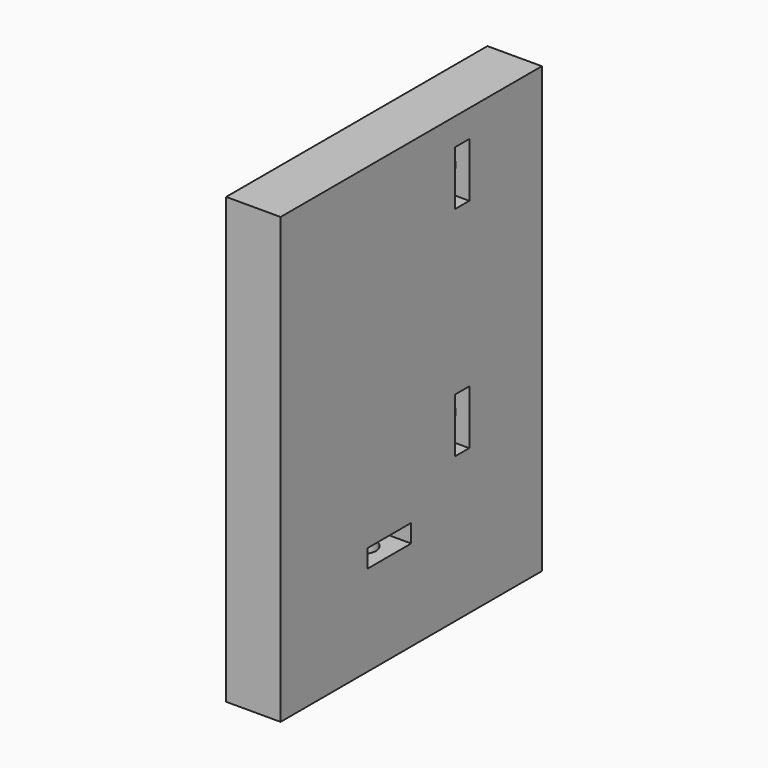
from build123d import *

# Parameters (mm, degrees)
CYLINDER1886_R               = 1.5
CYLINDER1886_DEPTH           = 50
CYLINDER1888_R               = 1.5
CYLINDER1888_DEPTH           = 50
CYLINDER1887_R               = 1.5
CYLINDER1887_DEPTH           = 50
CYLINDER1885_R               = 1.5
CYLINDER1885_DEPTH           = 50
BOX794_W                     = 2
BOX794_H                     = 6
BOX794_DEPTH                 = 6
BOX797_W                     = 2
BOX797_H                     = 6
BOX797_DEPTH                 = 6
BOX795_W                     = 2
BOX795_H                     = 6
BOX795_DEPTH                 = 6
BOX796_W                     = 2
BOX796_H                     = 6
BOX796_DEPTH                 = 6
CYLINDER1871_R               = 1.5
CYLINDER1871_DEPTH           = 50
CYLINDER1871_PLACEMENT_ANGLE = 45
BOX781_W                     = 6
BOX781_H                     = 8
BOX781_DEPTH                 = 2
BOX784_W                     = 49
BOX784_H                     = 36
BOX784_DEPTH                 = 6


with BuildPart() as obj1:
    # Cylinder1886 → Cylinder1886 (new body)
    with BuildSketch(Plane(origin=(-31, 150, 72), x_dir=(1, 0, 0), z_dir=(0, -1, 0))):
        Circle(CYLINDER1886_R)
    extrude(amount=CYLINDER1886_DEPTH)


with BuildPart() as obj2:
    # Cylinder1888 → Cylinder1888 (new body)
    with BuildSketch(Plane(origin=(31, 150, 48), x_dir=(1, 0, 0), z_dir=(0, -1, 0))):
        Circle(CYLINDER1888_R)
    extrude(amount=CYLINDER1888_DEPTH)


with BuildPart() as obj3:
    # Cylinder1887 → Cylinder1887 (new body)
    with BuildSketch(Plane(origin=(31, 150, 72), x_dir=(1, 0, 0), z_dir=(0, -1, 0))):
        Circle(CYLINDER1887_R)
    extrude(amount=CYLINDER1887_DEPTH)


with BuildPart() as compound949:
    # Cylinder1885 → Cylinder1885 (new body)
    with BuildSketch(Plane(origin=(-31, 150, 48), x_dir=(1, 0, 0), z_dir=(0, -1, 0))):
        Circle(CYLINDER1885_R)
    extrude(amount=CYLINDER1885_DEPTH)

    # Compound949: union obj1, obj2, obj3
    add(obj1.part)
    add(obj2.part)
    add(obj3.part)


with BuildPart() as krychle794:
    # Box794 → Box794 (new body)
    with BuildSketch(Plane(origin=(-28, 110, 69), x_dir=(0, 1, 0), z_dir=(0, 0, 1))):
        with Locations((1, 3)):
            Rectangle(BOX794_W, BOX794_H)
    extrude(amount=BOX794_DEPTH)


with BuildPart() as krychle797:
    # Box797 → Box797 (new body)
    with BuildSketch(Plane(origin=(34, 110, 45), x_dir=(0, 1, 0), z_dir=(0, 0, 1))):
        with Locations((1, 3)):
            Rectangle(BOX797_W, BOX797_H)
    extrude(amount=BOX797_DEPTH)


with BuildPart() as krychle795:
    # Box795 → Box795 (new body)
    with BuildSketch(Plane(origin=(34, 110, 69), x_dir=(0, 1, 0), z_dir=(0, 0, 1))):
        with Locations((1, 3)):
            Rectangle(BOX795_W, BOX795_H)
    extrude(amount=BOX795_DEPTH)


with BuildPart() as compound948:
    # Box796 → Box796 (new body)
    with BuildSketch(Plane(origin=(-28, 110, 45), x_dir=(0, 1, 0), z_dir=(0, 0, 1))):
        with Locations((1, 3)):
            Rectangle(BOX796_W, BOX796_H)
    extrude(amount=BOX796_DEPTH)

    # Compound948: union Krychle794, Krychle797, Krychle795
    add(krychle794.part)
    add(krychle797.part)
    add(krychle795.part)


with BuildPart() as compound941:
    # Cylinder1871 → Cylinder1871 (new body)
    with BuildSketch(Plane.XY):
        Circle(CYLINDER1871_R)
    extrude(amount=CYLINDER1871_DEPTH)


with BuildPart() as compound941_1:
    # Cylinder1871 placement: moved
    add(compound941.part.moved(Location((-31, 101, 0))).rotate(Axis((-31, 101, 0), (0, 0, 1)), CYLINDER1871_PLACEMENT_ANGLE))


with BuildPart() as compound938:
    # Box781 → Box781 (new body)
    with BuildSketch(Plane(origin=(-27, 98, 39), x_dir=(0, 1, 0), z_dir=(0, 0, 1))):
        with Locations((3, 4)):
            Rectangle(BOX781_W, BOX781_H)
    extrude(amount=BOX781_DEPTH)


with BuildPart() as cut595:
    # Box784 → Box784 (new body)
    with BuildSketch(Plane(origin=(-34, 86, 78), x_dir=(0, 0, -1), z_dir=(1, 0, 0))):
        with Locations((24.5, 18)):
            Rectangle(BOX784_W, BOX784_H)
    extrude(amount=BOX784_DEPTH)

    # Cut586: cut Compound938
    add(compound938.part, mode=Mode.SUBTRACT)

    # Cut589: cut Compound941
    add(compound941_1.part, mode=Mode.SUBTRACT)

    # Cut594: cut Compound948
    add(compound948.part, mode=Mode.SUBTRACT)

    # Cut595: cut Compound949
    add(compound949.part, mode=Mode.SUBTRACT)


solid = cut595.part
